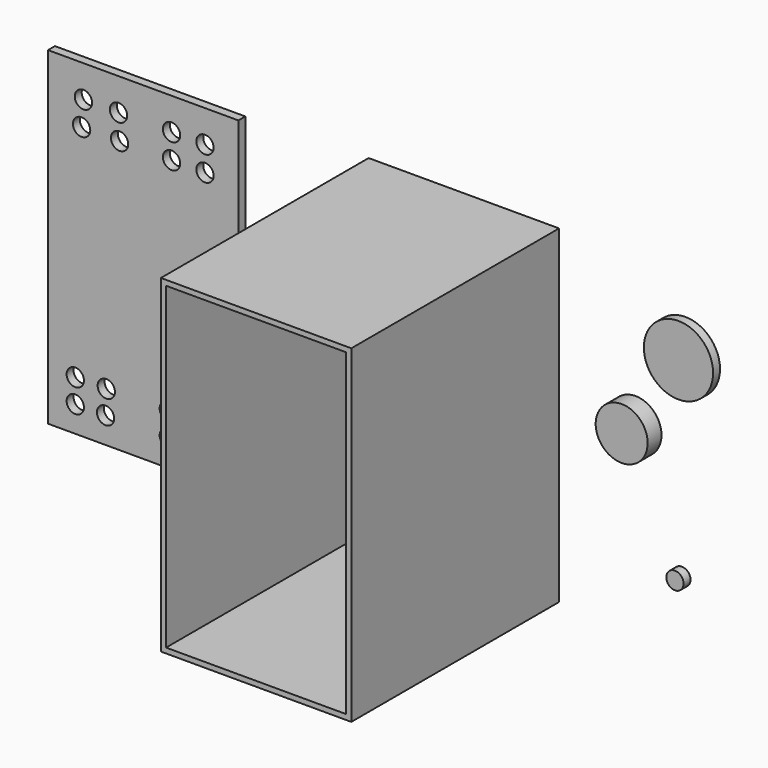
from build123d import *

# Parameters (mm, degrees)
F0_W      = 279.4
F0_H      = 482.6
F1_DEPTH  = 381
F2_T      = -7.62
F3_W      = 279.4
F3_H      = 482.6
F4_DEPTH  = 12.7
F5_R      = 38.1
F6_DEPTH  = 25.4
F7_R      = 50.8
F8_DEPTH  = 12.7
F9_R      = 12.7
F10_DEPTH = 12.7
F12_D     = 25.4
F14_D     = 25.4


with BuildPart() as f1:
    # F0 (on Front) → F1 (new body)
    with BuildSketch(Plane.XZ):
        Rectangle(F0_W, F0_H)
    extrude(amount=F1_DEPTH)

    # F2
    f2_openings = [f1.faces().sort_by_distance(p)[0] for p in [
        (0, -381, 0),
    ]]
    offset(amount=F2_T, openings=f2_openings)


with BuildPart() as f4:
    # F3 (on face) → F4 (new body)
    with BuildSketch(Plane.XZ.offset(7.62)):
        with Locations((-454.196155, 0)):
            Rectangle(F3_W, F3_H)
    extrude(amount=F4_DEPTH)

    # F12 (through all)
    with Locations(Plane(origin=(0, -7.62, 0), x_dir=(-1, 0, 0), z_dir=(0, 1, 0))):
        with Locations((363.571376, 194.217786), (412.618965, 194.217786), (412.618965, 157.908708), (363.571376, 157.908708), (488.846928, 157.908708), (544.572115, 157.908708), (541.925728, 194.217786), (490.403652, 194.217786)):
            Hole(F12_D / 2)

    # F14 (through all)
    with Locations(Plane.XZ.offset(20.32)):
        with Locations((-508.354962, -168.426171), (-553.84624, -168.426171), (-553.84624, -203.086212), (-509.438097, -203.086212), (-417.372316, -203.086212), (-375.130385, -203.086212), (-417.372316, -168.426171), (-375.130385, -168.426171)):
            Hole(F14_D / 2)


with BuildPart() as f6:
    # F5 (on face) → F6 (new body)
    with BuildSketch(Plane.XZ.offset(7.62)):
        with Locations((257.973343, 28.258491)):
            Circle(F5_R)
    extrude(amount=F6_DEPTH)


with BuildPart() as f8:
    # F7 (on face) → F8 (new body)
    with BuildSketch(Plane.XZ.offset(7.62)):
        with Locations((331.14925, 141.544148)):
            Circle(F7_R)
    extrude(amount=F8_DEPTH)


with BuildPart() as f10:
    # F9 (on face) → F10 (new body)
    with BuildSketch(Plane.XZ.offset(7.62)):
        with Locations((325.974733, -144.65262)):
            Circle(F9_R)
    extrude(amount=F10_DEPTH)


solid = Compound([f1.part, f4.part, f6.part, f8.part, f10.part])
